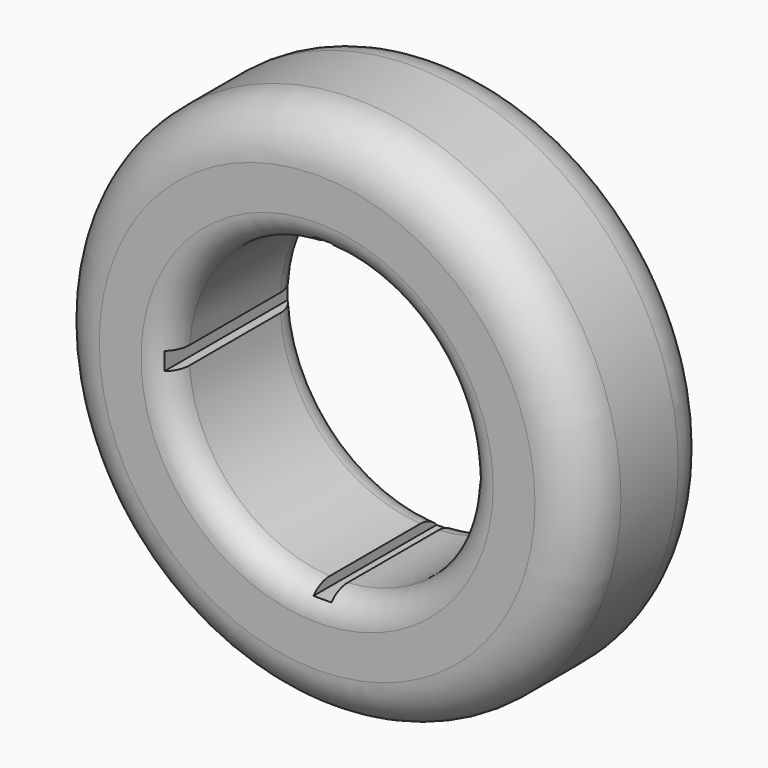
from build123d import *

# Parameters (mm, degrees)
BOX357_W          = 53
BOX357_H          = 30
BOX357_DEPTH      = 3
BOX358_W          = 3
BOX358_H          = 30
BOX358_DEPTH      = 53
CYLINDER020_R     = 25
CYLINDER020_DEPTH = 28
CYLINDER018_R     = 44.5
CYLINDER018_DEPTH = 28
FILLET007_R       = 8
FILLET009_R       = 4.5


with BuildPart() as cube357:
    # Box357 → Box357 (new body)
    with BuildSketch(Plane(origin=(-26.5, 1, -1.5), x_dir=(1, 0, 0), z_dir=(0, 0, 1))):
        with Locations((26.5, 15)):
            Rectangle(BOX357_W, BOX357_H)
    extrude(amount=BOX357_DEPTH)


with BuildPart() as fusion013:
    # Box358 → Box358 (new body)
    with BuildSketch(Plane(origin=(-1.5, 1, -26.5), x_dir=(1, 0, 0), z_dir=(0, 0, 1))):
        with Locations((1.5, 15)):
            Rectangle(BOX358_W, BOX358_H)
    extrude(amount=BOX358_DEPTH)

    # Fusion013: union Cube357
    add(cube357.part)


with BuildPart() as cylinder020:
    # Cylinder020 → Cylinder020 (new body)
    with BuildSketch(Plane(origin=(0, 0, 0), x_dir=(1, 0, 0), z_dir=(0, 1, 0))):
        Circle(CYLINDER020_R)
    extrude(amount=CYLINDER020_DEPTH)


with BuildPart() as rear_wheel_inner:
    # Cylinder018 → Cylinder018 (new body)
    with BuildSketch(Plane(origin=(0, 0, 0), x_dir=(1, 0, 0), z_dir=(0, 1, 0))):
        Circle(CYLINDER018_R)
    extrude(amount=CYLINDER018_DEPTH)

    # Fillet007
    fillet007_edges = [rear_wheel_inner.edges().sort_by_distance(p)[0] for p in [
        (-44.5, 0, 0),
        (-44.5, 28, 0),
    ]]
    fillet(fillet007_edges, radius=FILLET007_R)

    # Cut004026018020018: cut Cylinder020
    add(cylinder020.part, mode=Mode.SUBTRACT)

    # Fillet009
    fillet009_edges = [rear_wheel_inner.edges().sort_by_distance(p)[0] for p in [
        (-25, 28, 0),
        (-25, 0, 0),
    ]]
    fillet(fillet009_edges, radius=FILLET009_R)

    # Cut004026018020019: cut Fusion013
    add(fusion013.part, mode=Mode.SUBTRACT)


solid = rear_wheel_inner.part
